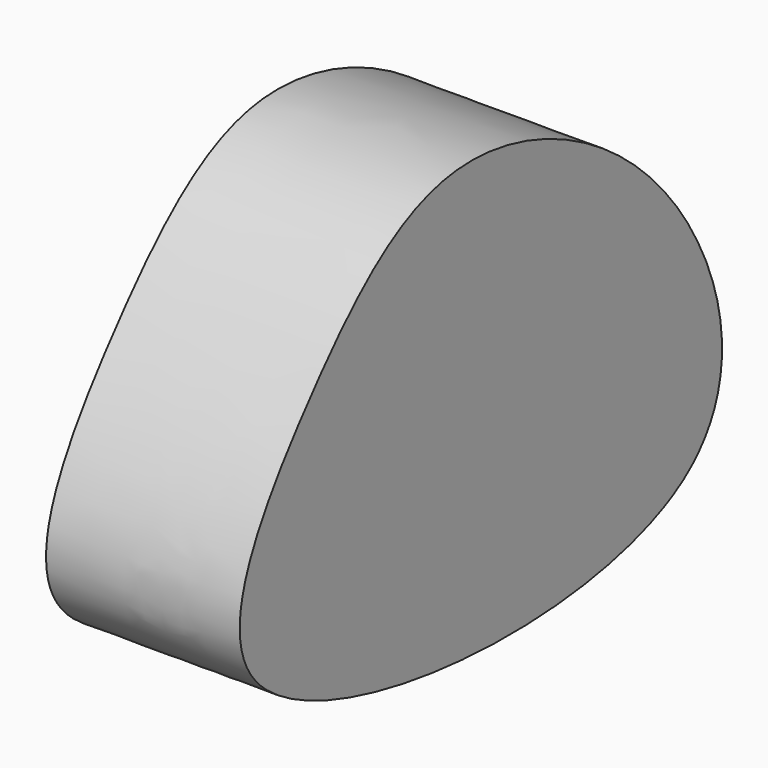
from build123d import *

# Parameters (mm, degrees)
F1_DEPTH = 40.42963


with BuildPart() as f1:
    # F0 (on Right) → F1 (new body)
    with BuildSketch(Plane.YZ):
        with BuildLine():
            add(Edge.make_bspline(
                [(-58.0696575344, -19.0527364612), (-69.0612599146, -6.0832476896), (-43.1002031815, 31.1534559629), (-7.7826165663, 63.8083620222), (54.9553639374, 35.7560079808), (81.8166217399, -49.0703731928), (-41.3283129184, -38.8066061434), (-58.0696575344, -19.0527364612)],
                knots=[0, 0, 0, 0, 0.1765299614, 0.3483419167, 0.5449418159, 0.7311266532, 1, 1, 1, 1], degree=3))
        make_face()
    extrude(amount=F1_DEPTH)


solid = f1.part
